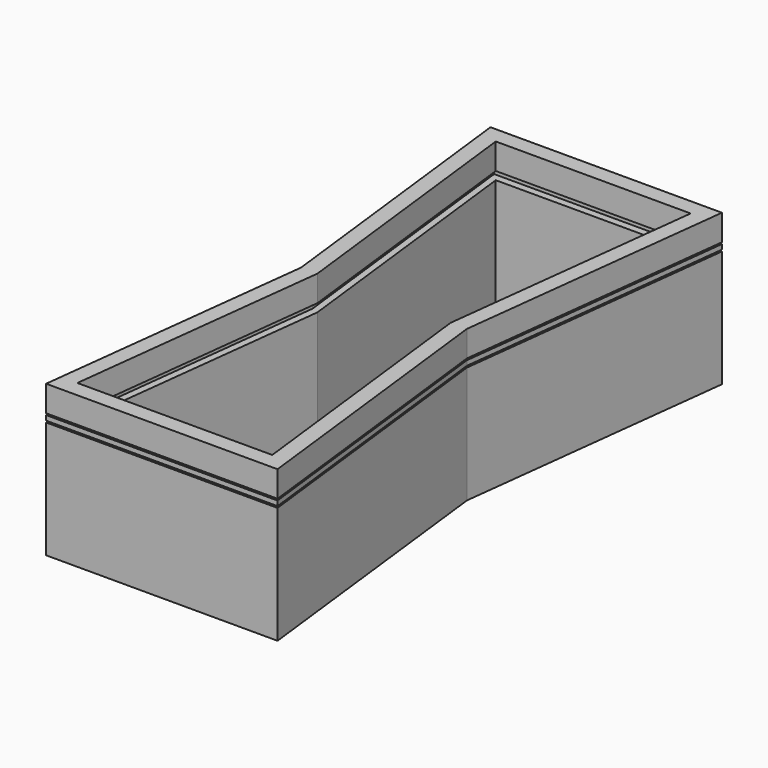
from build123d import *

# Parameters (mm, degrees)
F1_DEPTH = 101.6
F2_DEPTH = 1727.2
F5_DEPTH = 76.2
F8_DEPTH = 406.4


with BuildPart() as f1:
    # F0 (on Top) → F1 (new body)
    with BuildSketch(Plane.XY):
        Polygon((-1297.1585436, 0.0021844), (-1809.739078, -4343.4039624), (1809.739078, -4343.4039624), (1297.158569, 0.0021844), (1809.739078, 4343.4039878), (-1809.739078, 4343.4039878), align=None)
        Polygon((-1041.3984252, 0.0007366), (-1523.9984252, 4089.4007366), (1524.0015748, 4089.4007366), (1041.4015748, 0.0007366), (1524.0015748, -4089.3992634), (-1523.9984252, -4089.3992634), align=None, mode=Mode.SUBTRACT)
        Polygon((1524.0015748, 4089.4007366), (-1523.9984252, 4089.4007366), (-1041.3984252, 0.0007366), (-1523.9984252, -4089.3992634), (1524.0015748, -4089.3992634), (1041.4015748, 0.0007366), align=None)
    extrude(amount=-F1_DEPTH)

    # F0 (on Top) → F2 (join)
    with BuildSketch(Plane.XY):
        Polygon((-1297.1585436, 0.0021844), (-1809.739078, -4343.4039624), (1809.739078, -4343.4039624), (1297.158569, 0.0021844), (1809.739078, 4343.4039878), (-1809.739078, 4343.4039878), align=None)
        Polygon((-1041.3984252, 0.0007366), (-1523.9984252, 4089.4007366), (1524.0015748, 4089.4007366), (1041.4015748, 0.0007366), (1524.0015748, -4089.3992634), (-1523.9984252, -4089.3992634), align=None, mode=Mode.SUBTRACT)
    extrude(amount=F2_DEPTH)


with BuildPart() as f5:
    # F4 (on offset) → F5 (new body)
    with BuildSketch(Plane.XY.offset(1752.6)):
        Polygon((-1297.1585436, 0.0021844), (-1809.739078, -4343.4039624), (1809.739078, -4343.4039624), (1297.158569, 0.0021844), (1809.739078, 4343.4039878), (-1809.739078, 4343.4039878), align=None)
        Polygon((1609.7191834, -4165.6017018), (-1609.719158, -4165.6017018), (-1118.1268214, 0.0021844), (-1609.719158, 4165.6017018), (1609.7191834, 4165.6017018), (1118.1312156, 0.0021844), align=None, mode=Mode.SUBTRACT)
    extrude(amount=F5_DEPTH)


with BuildPart() as f8:
    # F7 (on offset) → F8 (new body)
    with BuildSketch(Plane.XY.offset(1854.2)):
        Polygon((-1297.1585436, 0.0021844), (-1809.739078, -4343.4039624), (1809.739078, -4343.4039624), (1297.158569, 0.0021844), (1809.739078, 4343.4039878), (-1809.739078, 4343.4039878), align=None)
        Polygon((-1041.3984252, 0.0007366), (-1523.9984252, 4089.4007366), (1524.0015748, 4089.4007366), (1041.4015748, 0.0007366), (1524.0015748, -4089.3992634), (-1523.9984252, -4089.3992634), align=None, mode=Mode.SUBTRACT)
    extrude(amount=F8_DEPTH)


solid = Compound([f1.part, f5.part, f8.part])
